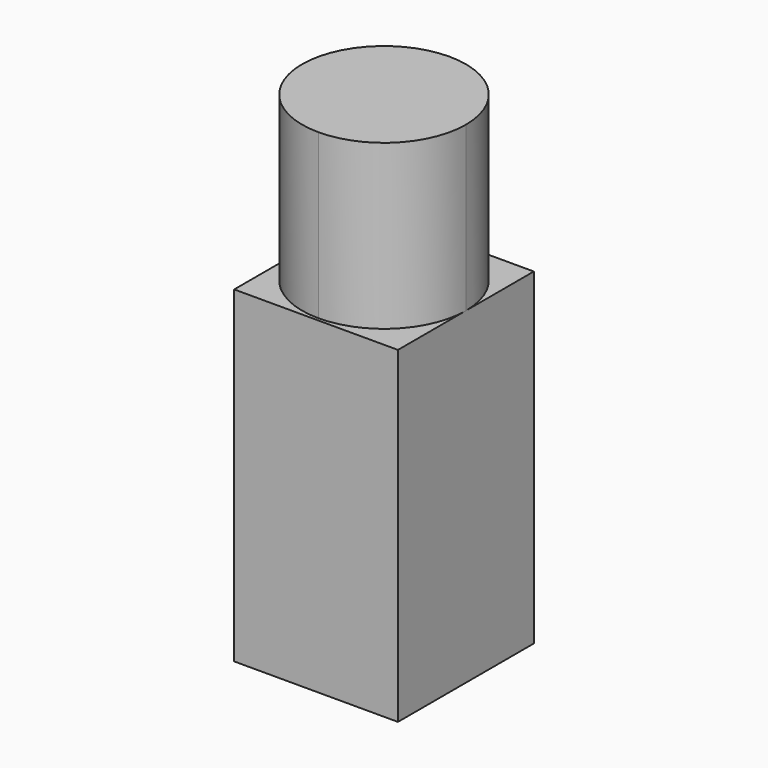
from build123d import *

# Parameters (mm, degrees)
F0_W     = 25.4
F0_H     = 26.3435523957
F1_DEPTH = 50.8
F3_DEPTH = 25.4


with BuildPart() as f1:
    # F0 (on Top) → F1 (new body)
    with BuildSketch(Plane.XY):
        with Locations((-44.2919794798, -43.9860569313)):
            Rectangle(F0_W, F0_H)
    extrude(amount=F1_DEPTH)

    # F2 (on face) → F3 (join)
    with BuildSketch(Plane.XY.offset(50.8)):
        with BuildLine():
            Line((-31.5919794798, -43.9860569313), (-44.2919794798, -43.9860569313))
            Line((-44.2919794798, -43.9860569313), (-44.2919794798, -56.6860569313))
            ThreePointArc((-44.2919794798, -56.6860569313), (-35.3117233587, -52.9663130524), (-31.5919794798, -43.9860569313))
        make_face()
        with BuildLine():
            ThreePointArc((-31.5919794798, -43.9860569313), (-35.3117233587, -35.0058008102), (-44.2919794798, -31.2860569313))
            Line((-44.2919794798, -31.2860569313), (-44.2919794798, -43.9860569313))
            Line((-44.2919794798, -43.9860569313), (-31.5919794798, -43.9860569313))
        make_face()
        with BuildLine():
            Line((-44.2919794798, -43.9860569313), (-44.2919794798, -31.2860569313))
            ThreePointArc((-44.2919794798, -31.2860569313), (-53.2722356009, -35.0058008102), (-56.9919794798, -43.9860569313))
            Line((-56.9919794798, -43.9860569313), (-44.2919794798, -43.9860569313))
        make_face()
        with BuildLine():
            Line((-44.2919794798, -56.6860569313), (-44.2919794798, -43.9860569313))
            Line((-44.2919794798, -43.9860569313), (-56.9919794798, -43.9860569313))
            ThreePointArc((-56.9919794798, -43.9860569313), (-53.2722356009, -52.9663130524), (-44.2919794798, -56.6860569313))
        make_face()
    extrude(amount=F3_DEPTH)


solid = f1.part
